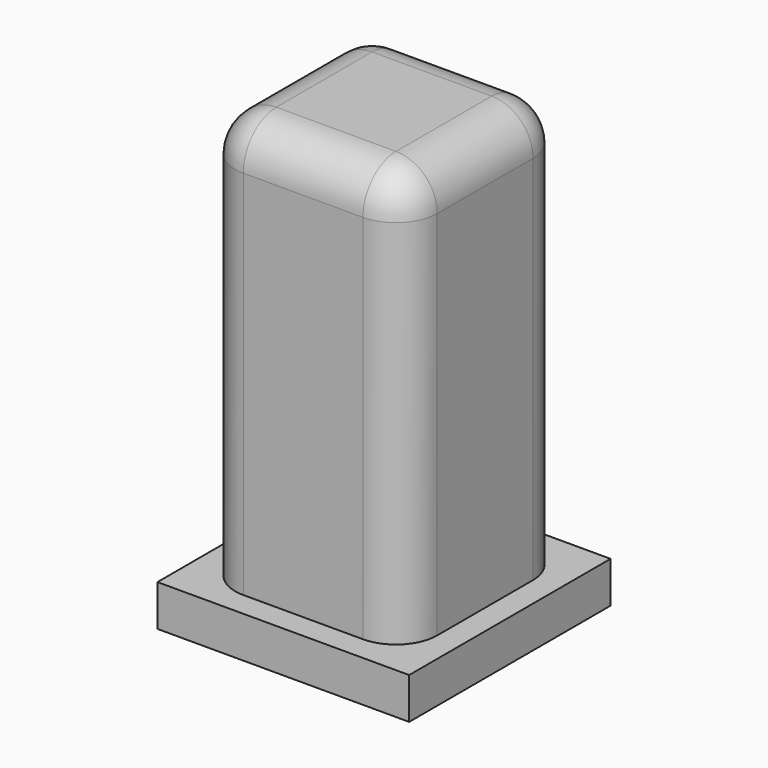
from build123d import *

# Parameters (mm, degrees)
F0_W     = 12.446
F0_H     = 12.446
F0_R     = 4.572
F1_DEPTH = 25.4
F0_W_2   = 15.494
F0_H_2   = 15.494
F2_DEPTH = 2.54
F3_W     = 12.446
F3_H     = 12.446
F3_R     = 4.572
F4_DEPTH = 2.54
F5_R     = 2.54


with BuildPart() as f1:
    # F0 (on Top) → F1 (new body)
    with BuildSketch(Plane.XY):
        with Locations((6.223, 6.223)):
            Rectangle(F0_W, F0_H)
        with Locations((6.223, 6.223)):
            Circle(F0_R, mode=Mode.SUBTRACT)
    extrude(amount=F1_DEPTH)

    # F0 (on Top) → F2 (join)
    with BuildSketch(Plane.XY):
        with Locations((6.223, 6.223)):
            Rectangle(F0_W_2, F0_H_2)
        with Locations((6.223, 6.223)):
            Rectangle(F0_W, F0_H, mode=Mode.SUBTRACT)
    extrude(amount=F2_DEPTH)

    # F3 (on face) → F4 (join)
    with BuildSketch(Plane.XY.offset(25.4)):
        with Locations((6.223, 6.223)):
            Rectangle(F3_W, F3_H)
        with Locations((6.223, 6.223)):
            Circle(F3_R, mode=Mode.SUBTRACT)
        with Locations((6.223, 6.223)):
            Circle(F3_R)
    extrude(amount=F4_DEPTH)

    # F5
    f5_edges = [f1.edges().sort_by_distance(p)[0] for p in [
        (0, 12.446, 15.24),
        (12.446, 12.446, 15.24),
        (0, 0, 15.24),
        (12.446, 0, 15.24),
        (6.223, 12.446, 27.94),
        (12.446, 6.223, 27.94),
        (6.223, 0, 27.94),
        (0, 6.223, 27.94),
    ]]
    fillet(f5_edges, radius=F5_R)


solid = f1.part
